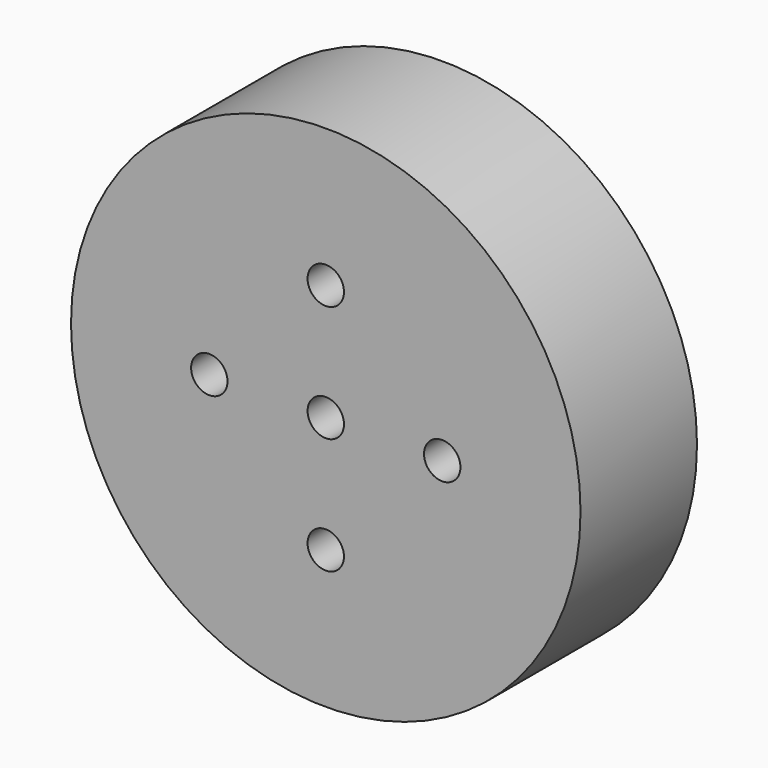
from build123d import *

# Parameters (mm, degrees)
F0_R     = 44.45
F0_R_2   = 3.175
F1_DEPTH = 25.4


with BuildPart() as f1:
    # F0 (on Front) → F1 (new body)
    with BuildSketch(Plane.XZ):
        Circle(F0_R)
        with Locations((0, -20.32)):
            Circle(F0_R_2, mode=Mode.SUBTRACT)
        with Locations((-20.32, 0)):
            Circle(F0_R_2, mode=Mode.SUBTRACT)
        Circle(F0_R_2, mode=Mode.SUBTRACT)
        with Locations((20.32, 0)):
            Circle(F0_R_2, mode=Mode.SUBTRACT)
        with Locations((0, 20.32)):
            Circle(F0_R_2, mode=Mode.SUBTRACT)
    extrude(amount=F1_DEPTH)


solid = f1.part
